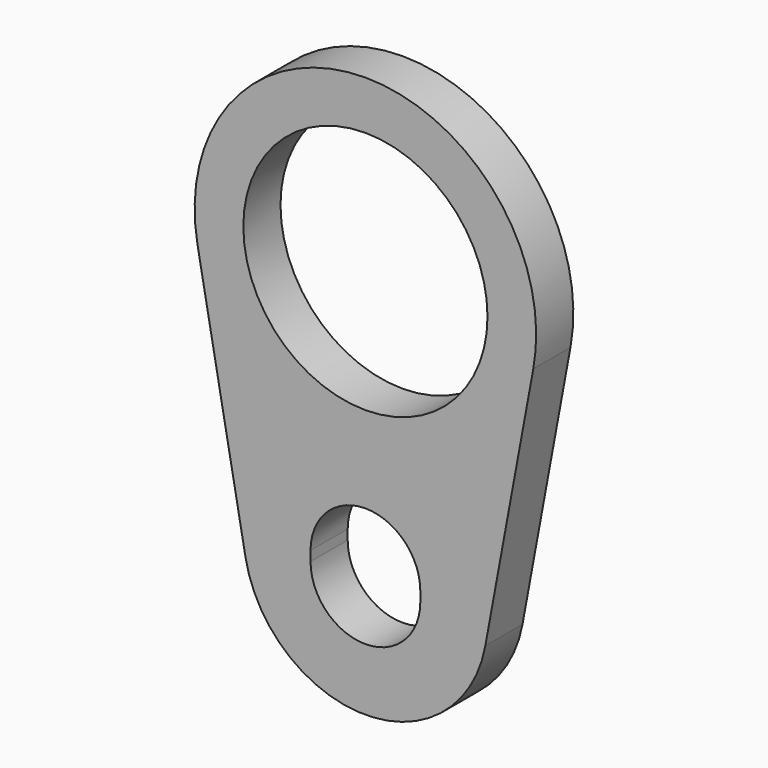
from build123d import *

# Parameters (mm, degrees)
F0_R     = 50.0507
F1_DEPTH = 19.05


with BuildPart() as f1:
    # F0 (on Front) → F1 (new body)
    with BuildSketch(Plane.XZ):
        with BuildLine():
            Line((49.1666083018, -119.0909090909), (68.8332516225, -12.7272727273))
            ThreePointArc((68.8332516225, -12.7272727273), (0, 70), (-68.8332516225, -12.7272727273))
            Line((-68.8332516225, -12.7272727273), (-49.1666083018, -119.0909090909))
            ThreePointArc((-49.1666083018, -119.0909090909), (0, -160), (49.1666083018, -119.0909090909))
        make_face()
        with BuildLine():
            Line((-22.5, -112), (-22.5, -108))
            ThreePointArc((-22.5, -108), (0, -85.5), (22.5, -108))
            Line((22.5, -108), (22.5, -112))
            ThreePointArc((22.5, -112), (0, -134.5), (-22.5, -112))
        make_face(mode=Mode.SUBTRACT)
        Circle(F0_R, mode=Mode.SUBTRACT)
    extrude(amount=F1_DEPTH)


solid = f1.part
